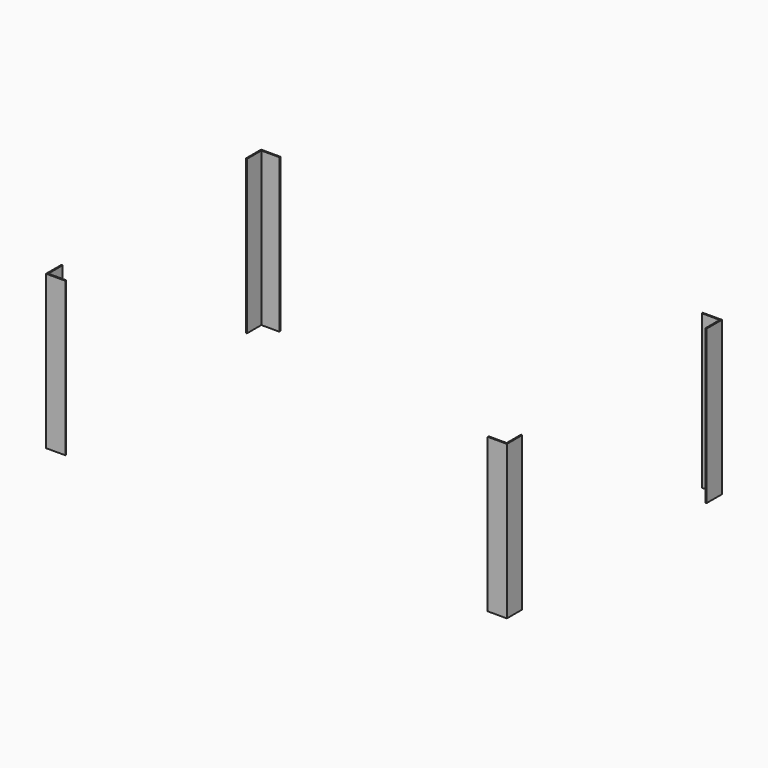
from build123d import *

# Parameters (mm, degrees)
F1_DEPTH = 406.4


with BuildPart() as f1:
    # F0 (on Top) → F1 (new body)
    with BuildSketch(Plane.XY):
        Polygon((-558.8, 355.6), (-609.6, 355.6), (-609.6, 304.8), (-606.425, 304.8), (-606.425, 352.425), (-558.8, 352.425), align=None)
        Polygon((-609.6, -304.8), (-609.6, -355.6), (-558.8, -355.6), (-558.8, -352.425), (-606.425, -352.425), (-606.425, -304.8), align=None)
        Polygon((558.8, -355.6), (609.6, -355.6), (609.6, -304.8), (606.425, -304.8), (606.425, -352.425), (558.8, -352.425), align=None)
        Polygon((609.6, 304.8), (609.6, 355.6), (558.8, 355.6), (558.8, 352.425), (606.425, 352.425), (606.425, 304.8), align=None)
    extrude(amount=F1_DEPTH)


solid = f1.part
